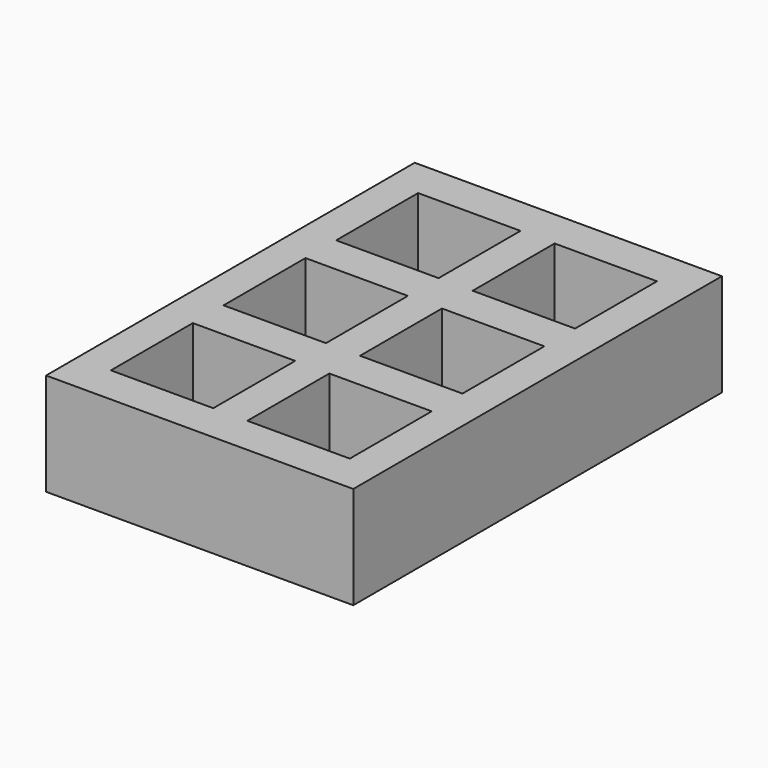
from build123d import *

# Parameters (mm, degrees)
F0_W     = 76.2
F0_H     = 114.3
F0_W_2   = 25.4
F0_H_2   = 25.4
F1_DEPTH = 25.4
F2_DEPTH = 2.54


with BuildPart() as f1:
    # F0 (on Top) → F1 (new body)
    with BuildSketch(Plane.XY):
        Rectangle(F0_W, F0_H)
        with Locations((-16.9418, -34.925)):
            Rectangle(F0_W_2, F0_H_2, mode=Mode.SUBTRACT)
        with Locations((16.9164, -34.925)):
            Rectangle(F0_W_2, F0_H_2, mode=Mode.SUBTRACT)
        with Locations((-16.9418, 0)):
            Rectangle(F0_W_2, F0_H_2, mode=Mode.SUBTRACT)
        with Locations((-16.9418, 34.925)):
            Rectangle(F0_W_2, F0_H_2, mode=Mode.SUBTRACT)
        with Locations((16.9164, 0)):
            Rectangle(F0_W_2, F0_H_2, mode=Mode.SUBTRACT)
        with Locations((16.9164, 34.925)):
            Rectangle(F0_W_2, F0_H_2, mode=Mode.SUBTRACT)
    extrude(amount=F1_DEPTH)


with BuildPart() as f2:
    # F0 (on Top) → F2 (new body)
    with BuildSketch(Plane.XY):
        with Locations((-16.9418, 34.925)):
            Rectangle(F0_W_2, F0_H_2)
        with Locations((16.9164, 34.925)):
            Rectangle(F0_W_2, F0_H_2)
        with Locations((-16.9418, 0)):
            Rectangle(F0_W_2, F0_H_2)
        with Locations((16.9164, 0)):
            Rectangle(F0_W_2, F0_H_2)
        with Locations((-16.9418, -34.925)):
            Rectangle(F0_W_2, F0_H_2)
        with Locations((16.9164, -34.925)):
            Rectangle(F0_W_2, F0_H_2)
    extrude(amount=F2_DEPTH)


solid = Compound([f1.part, f2.part])
